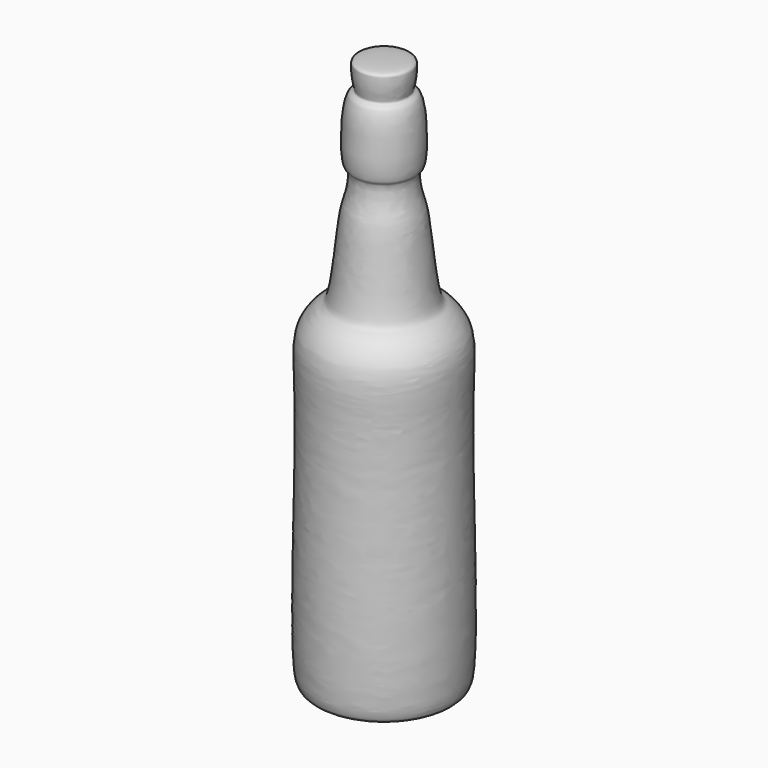
from build123d import *


with BuildPart() as f1:
    # F0 (on Front) → F1 (revolve)
    with BuildSketch(Plane.XZ):
        with BuildLine():
            Line((0, 270), (0, 3.4036987927))
            add(Edge.make_bspline(
                [(0, 3.4036987927), (13.7770066972, 3.7977018315), (32.1755470211, -3.7397831544), (36.0383948909, 9.6029032783), (34.2392678474, 84.7780040205), (34.0313044395, 130.4454283115), (35.6139728062, 154.0841772382), (25.5714525979, 163.9940922307), (20.4011512761, 165.1009369143), (17.9193910078, 204.6755278949), (14.2739504796, 211.7777551362), (13.2399648598, 223.334712438), (17.250882973, 223.1023580325), (16.7492070205, 255.9229858974), (10.8609328877, 255.7827700262), (12.2195465824, 259.4673564626), (12.9891094659, 267.6487366324), (11.8763893791, 269.8670045251), (4.32563902, 269.9515600243), (0, 270)],
                knots=[0, 0, 0, 0, 0.0857960835, 0.1299981412, 0.2633964109, 0.3728687081, 0.4440849269, 0.4966072398, 0.5289918014, 0.6223260239, 0.6730640907, 0.7192795573, 0.7435102054, 0.8274044481, 0.85530183, 0.8820502462, 0.9264434991, 0.9474770478, 1, 1, 1, 1], degree=3))
        make_face()
    revolve(axis=Axis((0, 0, 135), (0, 0, 1)))


solid = f1.part
